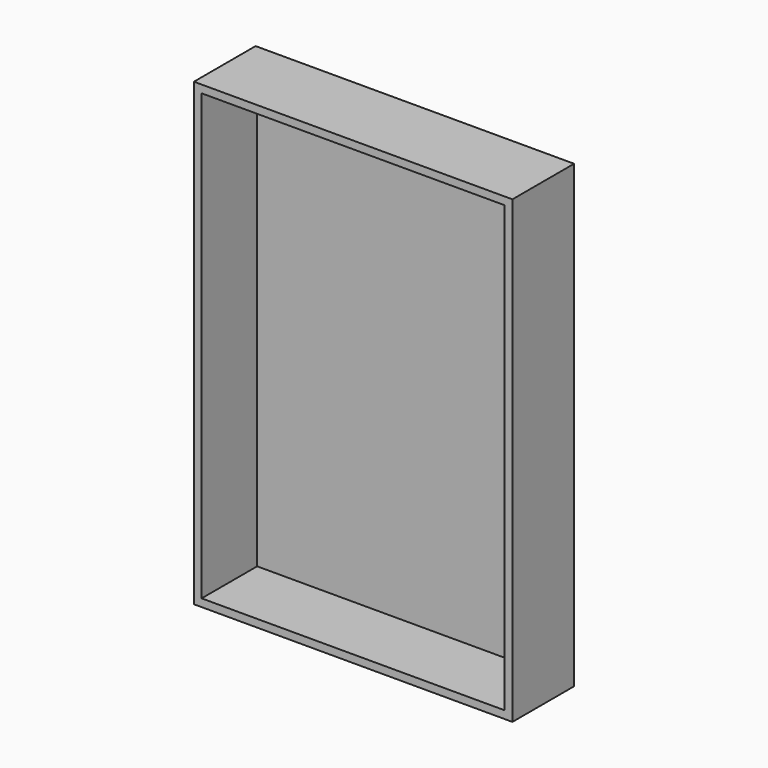
from build123d import *

# Parameters (mm, degrees)
F0_W     = 61.967217
F0_H     = 89.508198
F1_DEPTH = 7.5
F2_T     = -1.5


with BuildPart() as f1:
    # F0 (on Front) → F1 (new body, symmetric)
    with BuildSketch(Plane.XZ):
        with Locations((2.868853, 12.47951)):
            Rectangle(F0_W, F0_H)
    extrude(amount=F1_DEPTH, both=True)

    # F2
    f2_openings = [f1.faces().sort_by_distance(p)[0] for p in [
        (2.868854, -7.5, 12.47951),
    ]]
    offset(amount=F2_T, openings=f2_openings)


solid = f1.part
